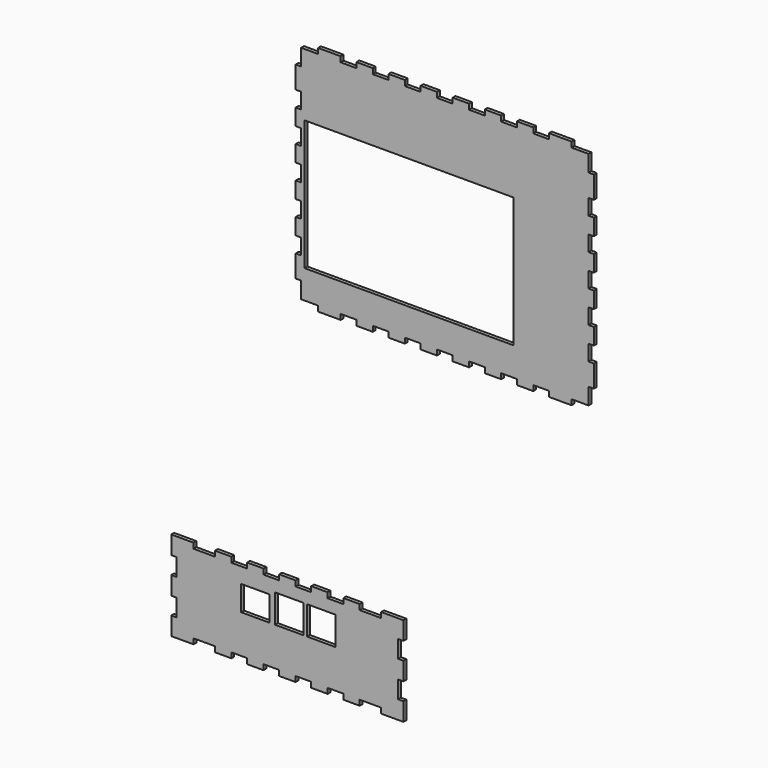
from build123d import *

# Parameters (mm, degrees)
F1_DEPTH = 2
F3_DEPTH = 2
F4_W     = 117
F4_H     = 73
F5_DEPTH = 3
F2_W     = 16
F2_H     = 16
F2_H_2   = 14
F6_DEPTH = 3


with BuildPart() as f1:
    # F0 (on Front) → F1 (new body)
    with BuildSketch(Plane.XZ):
        Polygon((-285.644661, 53.199995), (-298.09466, 53.199995), (-298.09466, 42.999996), (-295.09466, 42.999996), (-295.09466, 33.199996), (-298.09466, 33.199996), (-298.09466, 22.999996), (-295.09466, 22.999996), (-295.09466, 13.199996), (-298.09466, 13.199996), (-298.09466, 2.999999), (-285.644661, 2.999999), (-285.644661, 5.999998), (-273.594661, 5.999998), (-273.594661, 2.999999), (-264.394662, 2.999999), (-264.394662, 5.999998), (-255.594664, 5.999998), (-255.594664, 2.999999), (-246.394661, 2.999999), (-246.394661, 5.999998), (-237.594663, 5.999998), (-237.594663, 2.999999), (-228.394665, 2.999999), (-228.394665, 5.999998), (-219.594663, 5.999998), (-219.594663, 2.999999), (-210.394664, 2.999999), (-210.394664, 5.999998), (-201.594666, 5.999998), (-201.594666, 2.999999), (-192.394667, 2.999999), (-192.394667, 5.999998), (-180.344664, 5.999998), (-180.344664, 2.999999), (-167.894668, 2.999999), (-167.894668, 13.199996), (-170.894663, 13.199996), (-170.894663, 22.999996), (-167.894668, 22.999996), (-167.894668, 33.199996), (-170.894663, 33.199996), (-170.894663, 42.999996), (-167.894668, 42.999996), (-167.894668, 53.199995), (-180.344664, 53.199995), (-180.344664, 50.199996), (-192.394667, 50.199996), (-192.394667, 53.199995), (-201.594666, 53.199995), (-201.594666, 50.199996), (-210.394664, 50.199996), (-210.394664, 53.199995), (-219.594663, 53.199995), (-219.594663, 50.199996), (-228.394665, 50.199996), (-228.394665, 53.199995), (-237.594663, 53.199995), (-237.594663, 50.199996), (-246.394661, 50.199996), (-246.394661, 53.199995), (-255.594664, 53.199995), (-255.594664, 50.199996), (-264.394662, 50.199996), (-264.394662, 53.199995), (-273.594661, 53.199995), (-273.594661, 50.199996), (-285.644661, 50.199996), align=None)
    extrude(amount=F1_DEPTH)

    # F2 (on face) → F6 (cut)
    with BuildSketch(Plane.XZ.offset(2)):
        with Locations((-213.894663, 35.552187)):
            Rectangle(F2_W, F2_H)
        with Locations((-231.894663, 35.552187)):
            Rectangle(F2_W, F2_H)
        with Locations((-250.894663, 34.552187)):
            Rectangle(F2_W, F2_H_2)
    extrude(amount=-F6_DEPTH, mode=Mode.SUBTRACT)


with BuildPart() as f3:
    # F0 (on Front) → F3 (new body)
    with BuildSketch(Plane.XZ):
        Polygon((-225.284467, 202.250004), (-225.284467, 193.000004), (-215.784468, 193.000004), (-215.784468, 190.000004), (-203.084468, 190.000004), (-203.084468, 193.000004), (-194.284469, 193.000004), (-194.284469, 190.000004), (-185.084468, 190.000004), (-185.084468, 193.000004), (-176.28447, 193.000004), (-176.28447, 190.000004), (-167.084471, 190.000004), (-167.084471, 193.000004), (-158.284473, 193.000004), (-158.284473, 190.000004), (-149.08447, 190.000004), (-149.08447, 193.000004), (-140.284472, 193.000004), (-140.284472, 190.000004), (-131.084473, 190.000004), (-131.084473, 193.000004), (-122.284476, 193.000004), (-122.284476, 190.000004), (-113.084477, 190.000004), (-113.084477, 193.000004), (-104.284471, 193.000004), (-104.284471, 190.000004), (-95.084472, 190.000004), (-95.084472, 193.000004), (-86.284474, 193.000004), (-86.284474, 190.000004), (-73.584468, 190.000004), (-73.584468, 193.000004), (-64.08447, 193.000004), (-64.08447, 202.250004), (-61.084484, 202.250004), (-61.084484, 214.700004), (-64.08447, 214.700004), (-64.08447, 223.500001), (-61.084484, 223.500001), (-61.084484, 232.7), (-64.08447, 232.7), (-64.08447, 241.500002), (-61.084484, 241.500002), (-61.084484, 250.700001), (-64.08447, 250.700001), (-64.08447, 259.499999), (-61.084484, 259.499999), (-61.084484, 268.699998), (-64.08447, 268.699998), (-64.08447, 277.499996), (-61.084484, 277.499996), (-61.084484, 286.700003), (-64.08447, 286.700003), (-64.08447, 295.500001), (-61.084484, 295.500001), (-61.084484, 307.949996), (-64.08447, 307.949996), (-64.08447, 317.200001), (-73.584468, 317.200001), (-73.584468, 320.199996), (-86.284474, 320.199996), (-86.284474, 317.200001), (-95.084472, 317.200001), (-95.084472, 320.199996), (-104.284471, 320.199996), (-104.284471, 317.200001), (-113.084477, 317.200001), (-113.084477, 320.199996), (-122.284476, 320.199996), (-122.284476, 317.200001), (-131.084473, 317.200001), (-131.084473, 320.199996), (-140.284472, 320.199996), (-140.284472, 317.200001), (-149.08447, 317.200001), (-149.08447, 320.199996), (-158.284473, 320.199996), (-158.284473, 317.200001), (-167.084471, 317.200001), (-167.084471, 320.199996), (-176.28447, 320.199996), (-176.28447, 317.200001), (-185.084468, 317.200001), (-185.084468, 320.199996), (-194.284469, 320.199996), (-194.284469, 317.200001), (-203.084468, 317.200001), (-203.084468, 320.199996), (-215.784468, 320.199996), (-215.784468, 317.200001), (-225.284467, 317.200001), (-225.284467, 307.949996), (-228.284467, 307.949996), (-228.284467, 295.500001), (-225.284467, 295.500001), (-225.284467, 286.700003), (-228.284467, 286.700003), (-228.284467, 277.499996), (-225.284467, 277.499996), (-225.284467, 268.699998), (-228.284467, 268.699998), (-228.284467, 259.499999), (-225.284467, 259.499999), (-225.284467, 250.700001), (-228.284467, 250.700001), (-228.284467, 241.500002), (-225.284467, 241.500002), (-225.284467, 232.7), (-228.284467, 232.7), (-228.284467, 223.500001), (-225.284467, 223.500001), (-225.284467, 214.700004), (-228.284467, 214.700004), (-228.284467, 202.250004), align=None)
    extrude(amount=F3_DEPTH)

    # F4 (on face) → F5 (cut)
    with BuildSketch(Plane.XZ.offset(2)):
        with Locations((-164.784467, 245.500004)):
            Rectangle(F4_W, F4_H)
    extrude(amount=-F5_DEPTH, mode=Mode.SUBTRACT)


solid = Compound([f1.part, f3.part])
